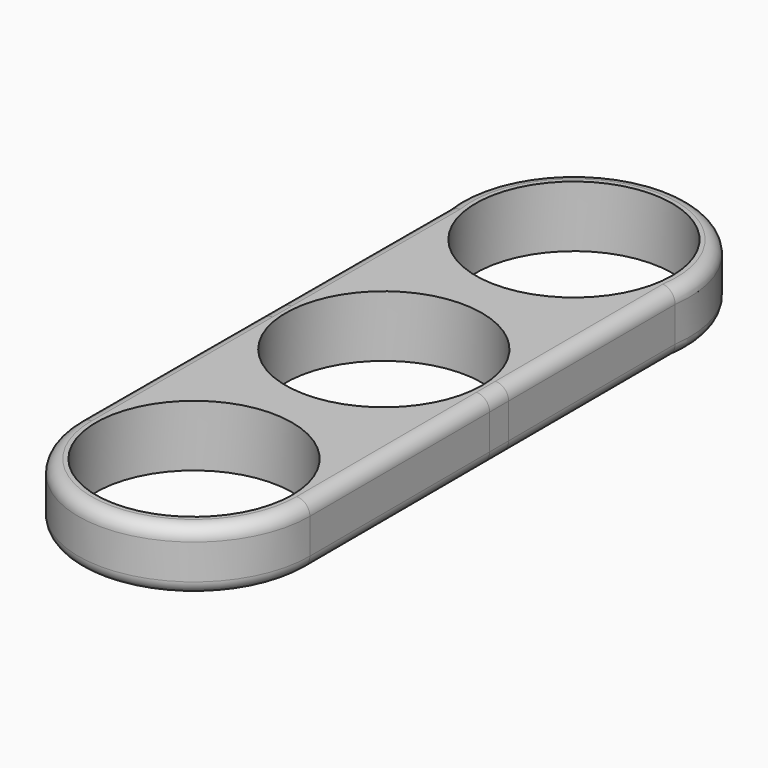
from build123d import *

# Parameters (mm, degrees)
F0_R     = 11.2
F2_DEPTH = 7
F3_R     = 1.5
F4_R     = 1.5


with BuildPart() as f2:
    # F0 (on Top) → F2 (new body)
    with BuildSketch(Plane.XY):
        with BuildLine():
            Line((13.200049, -27.049193), (13.133245, -1.325845))
            Line((13.133245, -1.325845), (13.126182, 1.394041))
            Line((13.126182, 1.394041), (13.064269, 25.233856))
            ThreePointArc((13.064269, 25.233856), (-0.000644, 40.321941), (-13.064085, 25.232581))
            Line((-13.064085, 25.232581), (-13.125989, 1.395851))
            Line((-13.125989, 1.395851), (-13.133062, -1.327656))
            Line((-13.133062, -1.327656), (-13.199862, -27.049193))
            ThreePointArc((-13.199862, -27.049193), (9.4e-05, -40.283473), (13.200049, -27.049193))
        make_face()
        Circle(F0_R, mode=Mode.SUBTRACT)
        with Locations((9.4e-05, -27.083473)):
            Circle(F0_R, mode=Mode.SUBTRACT)
        with Locations((0, 27.121941)):
            Circle(F0_R, mode=Mode.SUBTRACT)
    extrude(amount=F2_DEPTH)

    # F3
    f3_edges = [f2.edges().sort_by_distance(p)[0] for p in [
        (13.132159, -0.907668, 7),
        (9.4e-05, -40.283473, 7),
        (-13.131973, -0.908306, 7),
        (-0.000644, 40.321941, 7),
    ]]
    fillet(f3_edges, radius=F3_R)

    # F4
    f4_edges = [f2.edges().sort_by_distance(p)[0] for p in [
        (-0.000644, 40.321941, 0),
        (13.132159, -0.907668, 0),
        (-13.131973, -0.908306, 0),
        (9.4e-05, -40.283473, 0),
    ]]
    fillet(f4_edges, radius=F4_R)


solid = f2.part
